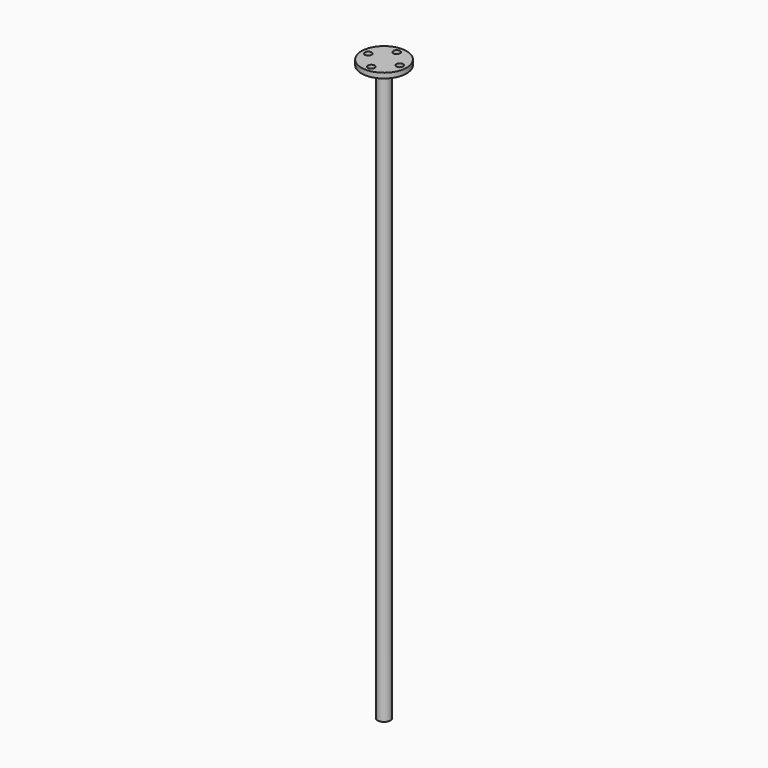
from build123d import *

# Parameters (mm, degrees)
F0_R     = 66.75
F1_DEPTH = 15
F2_R     = 19
F3_DEPTH = 1700
F4_R     = 10
F5_DEPTH = 15


with BuildPart() as f1:
    # F0 (on Top) → F1 (new body)
    with BuildSketch(Plane.XY):
        Circle(F0_R)
    extrude(amount=F1_DEPTH)

    # F4 (on face) → F5 (cut, through all)
    with BuildSketch(Plane.XY.offset(15)):
        with Locations((46.75, 0)):
            Circle(F4_R)
        with Locations((0, 46.75)):
            Circle(F4_R)
        with Locations((-46.75, 0)):
            Circle(F4_R)
        with Locations((0, -46.75)):
            Circle(F4_R)
    extrude(amount=-F5_DEPTH, mode=Mode.SUBTRACT)


with BuildPart() as f3:
    # F2 (on face) → F3 (new body)
    with BuildSketch(Plane(origin=(0, 0, 0), x_dir=(1, 0, 0), z_dir=(0, 0, -1))):
        Circle(F2_R)
    extrude(amount=F3_DEPTH)


solid = Compound([f1.part, f3.part])
